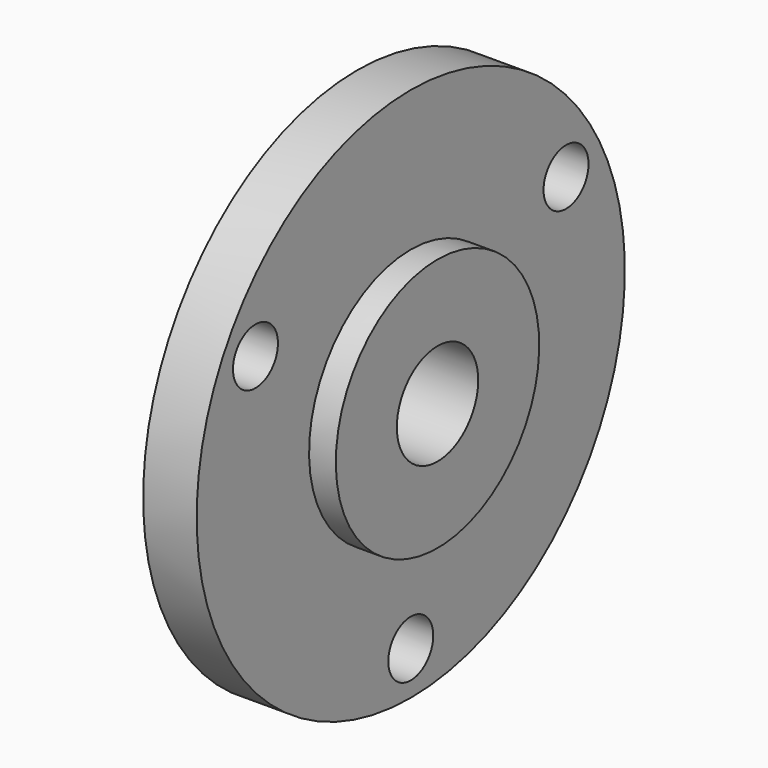
from build123d import *

# Parameters (mm, degrees)
F2_R     = 1.05
F3_DEPTH = 3.001


with BuildPart() as f1:
    # F0 (on Front) → F1 (revolve)
    with BuildSketch(Plane.XZ):
        Polygon((0, 1.9), (4.6, 1.9), (4.6, 4.75), (3.6, 4.75), (3.6, 10), (1.6, 10), (1.6, 3.95), (-1.4, 3.95), (-1.4, 3.25), (0, 3.25), align=None)
    revolve(axis=Axis((12.581626, 0, 0), (1, 0, 0)))

    # F2 (on face) → F3 (cut, through all)
    with BuildSketch(Plane(origin=(1.6, 0, 0), x_dir=(0, -1, 0), z_dir=(-1, 0, 0))):
        with Locations((-7.252963, 4.1875)):
            Circle(F2_R)
        with Locations((7.252963, 4.1875)):
            Circle(F2_R)
        with Locations((0, -8.375)):
            Circle(F2_R)
    extrude(amount=-F3_DEPTH, mode=Mode.SUBTRACT)


solid = f1.part
